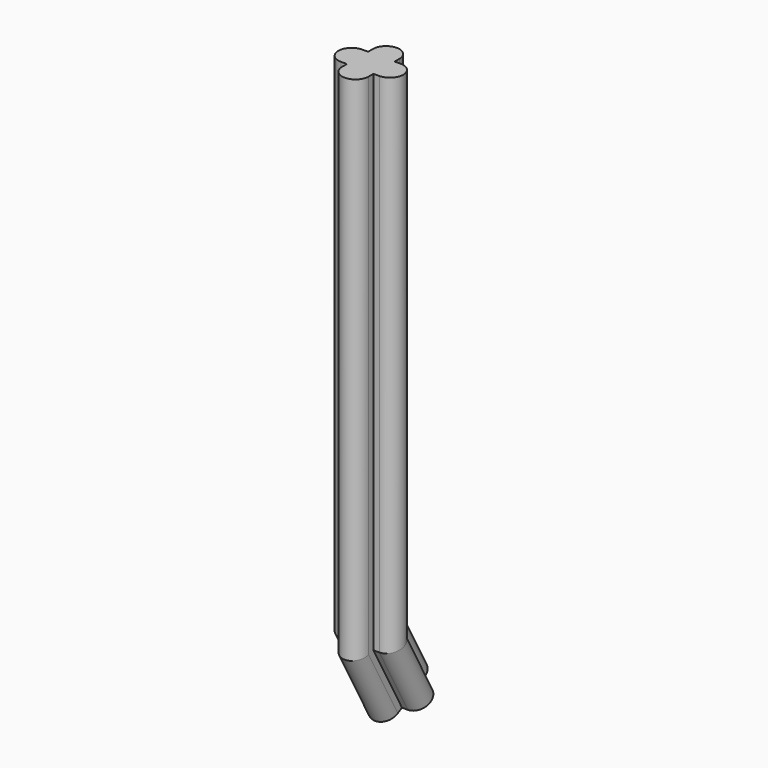
from build123d import *


with BuildPart() as f2:
    # F2: sweep along a path in F1
    with BuildLine(Plane.YZ) as f2_path:
        Line((0, 0), (0, -57))
        Line((0, -57), (3.843029767, -64.016489308))
    # F0 (on Top) → F2 (sweep)
    with BuildSketch(Plane.XY):
        with BuildLine():
            Line((0, -1.5), (0, 0))
            Line((0, 0), (-1.5, 0))
            ThreePointArc((-1.5, 0), (-1.0606601718, -1.0606601718), (0, -1.5))
        make_face()
        with BuildLine():
            Line((0, 0), (0, 1.5))
            ThreePointArc((0, 1.5), (-1.0606601718, 1.0606601718), (-1.5, 0))
            Line((-1.5, 0), (0, 0))
        make_face()
        with BuildLine():
            Line((-1.5, -1.5), (-1.5, 0))
            Line((-1.5, 0), (-1.5, 1.5))
            Line((-1.5, 1.5), (-2.17, 1.5))
            ThreePointArc((-2.17, 1.5), (-3.67, 0), (-2.17, -1.5))
            Line((-2.17, -1.5), (-1.5, -1.5))
        make_face()
        with BuildLine():
            Line((0, 0), (0, 1.5))
            ThreePointArc((0, 1.5), (-1.0606601718, 1.0606601718), (-1.5, 0))
            Line((-1.5, 0), (0, 0))
        make_face()
        with BuildLine():
            Line((0, 0), (1.5, 0))
            ThreePointArc((1.5, 0), (1.0606601718, 1.0606601718), (0, 1.5))
            Line((0, 1.5), (0, 0))
        make_face()
        with BuildLine():
            Line((1.5, -1.5), (1.5, 0))
            ThreePointArc((1.5, 0), (1.0606601718, -1.0606601718), (0, -1.5))
            Line((0, -1.5), (1.5, -1.5))
        make_face()
        with BuildLine():
            Line((-1.5, -1.5), (0, -1.5))
            ThreePointArc((0, -1.5), (-1.0606601718, -1.0606601718), (-1.5, 0))
            Line((-1.5, 0), (-1.5, -1.5))
        make_face()
        with BuildLine():
            ThreePointArc((-1.5, 0), (-1.0606601718, 1.0606601718), (0, 1.5))
            Line((0, 1.5), (-1.5, 1.5))
            Line((-1.5, 1.5), (-1.5, 0))
        make_face()
        with BuildLine():
            Line((1.5, -1.5), (0, -1.5))
            Line((0, -1.5), (-1.5, -1.5))
            Line((-1.5, -1.5), (-1.5, -2.17))
            ThreePointArc((-1.5, -2.17), (0, -3.67), (1.5, -2.17))
            Line((1.5, -2.17), (1.5, -1.5))
        make_face()
        with BuildLine():
            Line((2.17, 1.5), (1.5, 1.5))
            Line((1.5, 1.5), (1.5, 0))
            Line((1.5, 0), (1.5, -1.5))
            Line((1.5, -1.5), (2.17, -1.5))
            ThreePointArc((2.17, -1.5), (3.67, 0), (2.17, 1.5))
        make_face()
        with BuildLine():
            ThreePointArc((0, -1.5), (1.0606601718, -1.0606601718), (1.5, 0))
            Line((1.5, 0), (0, 0))
            Line((0, 0), (0, -1.5))
        make_face()
        with BuildLine():
            Line((1.5, 0), (1.5, 1.5))
            Line((1.5, 1.5), (0, 1.5))
            ThreePointArc((0, 1.5), (1.0606601718, 1.0606601718), (1.5, 0))
        make_face()
        with BuildLine():
            ThreePointArc((-1.5, 0), (-1.0606601718, 1.0606601718), (0, 1.5))
            Line((0, 1.5), (-1.5, 1.5))
            Line((-1.5, 1.5), (-1.5, 0))
        make_face()
        with BuildLine():
            Line((1.5, 0), (1.5, 1.5))
            Line((1.5, 1.5), (0, 1.5))
            ThreePointArc((0, 1.5), (1.0606601718, 1.0606601718), (1.5, 0))
        make_face()
        with BuildLine():
            Line((0, 0), (1.5, 0))
            ThreePointArc((1.5, 0), (1.0606601718, 1.0606601718), (0, 1.5))
            Line((0, 1.5), (0, 0))
        make_face()
        with BuildLine():
            Line((0, 1.5), (1.5, 1.5))
            Line((1.5, 1.5), (1.5, 2.17))
            ThreePointArc((1.5, 2.17), (0, 3.67), (-1.5, 2.17))
            Line((-1.5, 2.17), (-1.5, 1.5))
            Line((-1.5, 1.5), (0, 1.5))
        make_face()
    sweep(path=f2_path.line, transition=Transition.RIGHT)


solid = f2.part
